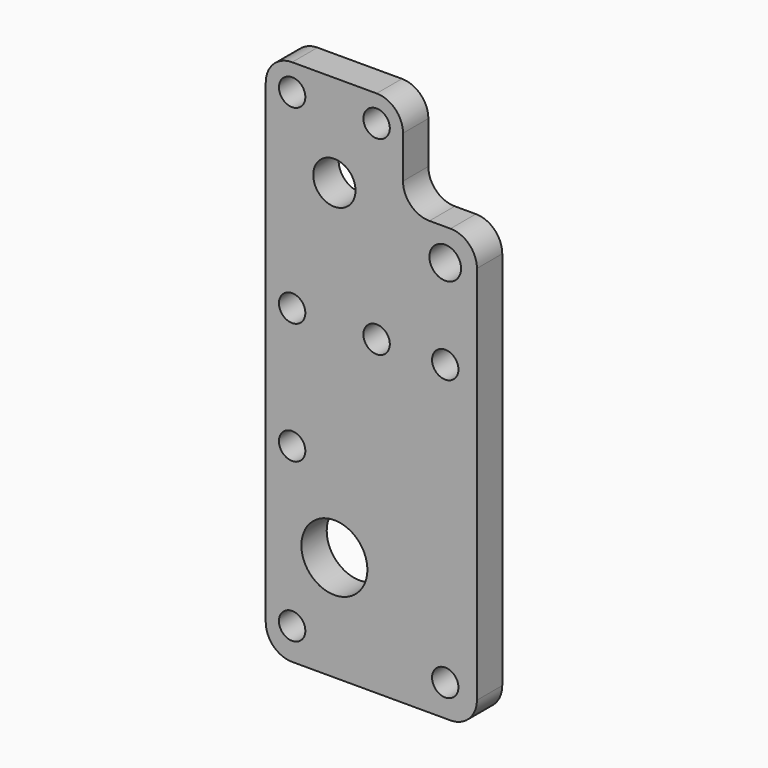
from build123d import *

# Parameters (mm, degrees)
F1_DEPTH = 6
F2_D     = 12.5
F3_D     = 5
F4_D     = 5
F5_D     = 5
F6_D     = 5
F7_R     = 5
F8_D     = 8
F8_DEPTH = 20
F8_TIP   = 2.4034424761
F9_D     = 6


with BuildPart() as f1:
    # F0 (on Front) → F1 (new body)
    with BuildSketch(Plane.XZ):
        Polygon((0, 27), (0, -27), (13, -27), (40, -27), (40, 55), (26, 55), (26, 73), (0, 73), align=None)
    extrude(amount=F1_DEPTH)

    # F2 (through all)
    with Locations(Plane(origin=(0, 0, 0), x_dir=(1, 0, 0), z_dir=(0, 1, 0))):
        with Locations((13, 7)):
            Hole(F2_D / 2)

    # F3 (through all)
    with Locations(Plane(origin=(0, 0, 0), x_dir=(1, 0, 0), z_dir=(0, 1, 0))):
        with Locations((34, 21), (34, -32)):
            Hole(F3_D / 2)

    # F4 (through all)
    with Locations(Plane(origin=(0, 0, 0), x_dir=(1, 0, 0), z_dir=(0, 1, 0))):
        with Locations((5, -32), (21, -32)):
            Hole(F4_D / 2)

    # F5 (through all)
    with Locations(Plane(origin=(0, 0, 0), x_dir=(1, 0, 0), z_dir=(0, 1, 0))):
        with Locations((5, 21), (5, -9)):
            Hole(F5_D / 2)

    # F6 (through all)
    with Locations(Plane(origin=(0, 0, 0), x_dir=(1, 0, 0), z_dir=(0, 1, 0))):
        with Locations((5, -68), (21, -68)):
            Hole(F6_D / 2)

    # F7
    f7_edges = [f1.edges().sort_by_distance(p)[0] for p in [
        (26, -3, 73),
        (0, -3, 73),
        (40, -3, 55),
        (26, -3, 55),
        (40, -3, -27),
        (0, -3, -27),
    ]]
    fillet(f7_edges, radius=F7_R)

    # F8
    with Locations(Plane(origin=(0, 0, 0), x_dir=(1, 0, 0), z_dir=(0, 1, 0))):
        with Locations((13, -55.5)):
            Hole(F8_D / 2, depth=F8_DEPTH)
            with Locations((0, 0, -(F8_DEPTH + F8_TIP / 2))):  # 118° drill point
                Cone(0, F8_D / 2, F8_TIP, mode=Mode.SUBTRACT)

    # F9 (through all)
    with Locations(Plane(origin=(0, 0, 0), x_dir=(1, 0, 0), z_dir=(0, 1, 0))):
        with Locations((34, -49)):
            Hole(F9_D / 2)


solid = f1.part
